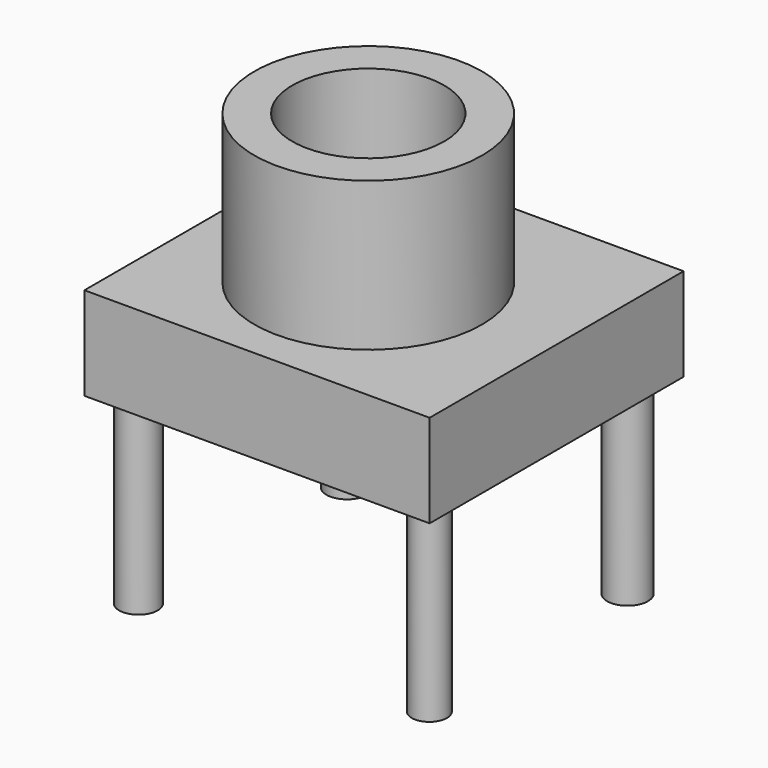
from build123d import *

# Parameters (mm, degrees)
F0_W     = 10.3749409318
F0_H     = 40.6585689634
F2_W     = 94.325793907
F2_H     = 86.7265574634
F2_R     = 31.1248358339
F3_DEPTH = 25.4
F5_R     = 5.5859562954
F5_R_2   = 5.6138148753
F5_R_3   = 5.25198777
F5_R_4   = 4.7987242699
F6_DEPTH = 50.8


with BuildPart() as f1:
    # F0 (on Front) → F1 (revolve)
    with BuildSketch(Plane.XZ):
        with Locations((45.14503479, 37.1535243466)):
            Rectangle(F0_W, F0_H)
    revolve(axis=Axis((19.207669422, 0, 35.8917070553), (0, 0, -1)))


with BuildPart() as f3:
    # F2 (on face) → F3 (new body)
    with BuildSketch(Plane(origin=(0, 0, 16.8242398649), x_dir=(1, 0, 0), z_dir=(0, 0, -1))):
        with Locations((21.3397899643, -2.7243886143)):
            Rectangle(F2_W, F2_H)
        with Locations((19.207669422, 0)):
            Circle(F2_R, mode=Mode.SUBTRACT)
    extrude(amount=F3_DEPTH)

    # F5 (on face) → F6 (join)
    with BuildSketch(Plane(origin=(0, 0, -8.5757601351), x_dir=(1, 0, 0), z_dir=(0, 0, -1))):
        with Locations((60.8100071549, -36.5738496184)):
            Circle(F5_R)
        with Locations((-16.6315622628, -37.5730954111)):
            Circle(F5_R_2)
        with Locations((-17.8806204349, 32.1243181825)):
            Circle(F5_R_3)
        with Locations((61.8092529476, 32.3741286993)):
            Circle(F5_R_4)
    extrude(amount=F6_DEPTH)


solid = Compound([f1.part, f3.part])
